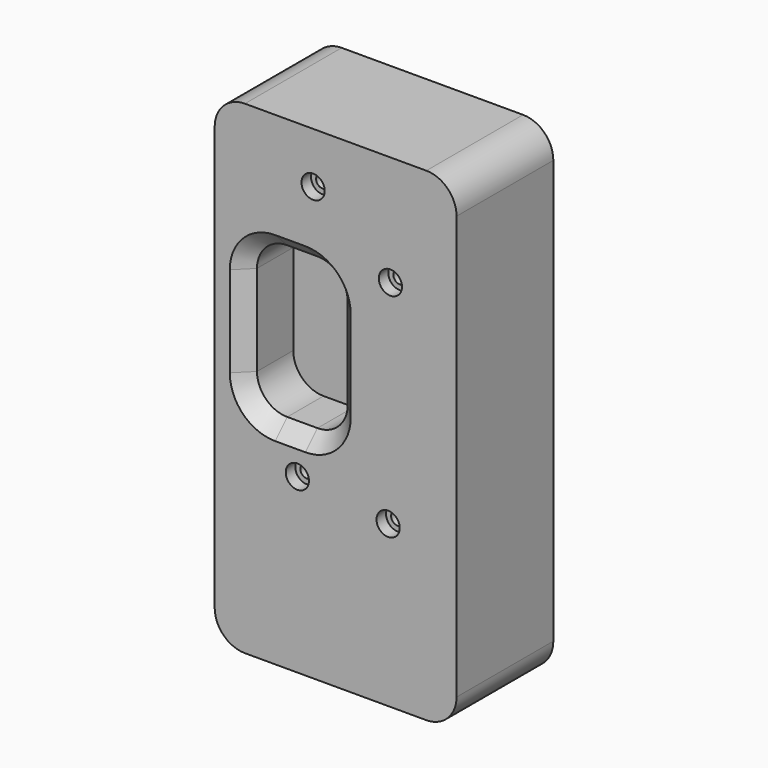
from build123d import *

# Parameters (mm, degrees)
F0_W           = 101.6
F0_H           = 50.8
F1_DEPTH       = 101.6
F3_D           = 5.5
F3_CBORE_D     = 9.75
F3_CBORE_DEPTH = 5
F4_R           = 12.7
F5_W           = 38.1
F5_H           = 63.5
F6_DEPTH       = 25.4
F7_R           = 12.7
F8_SIZE        = 6.35


with BuildPart() as f1:
    # F0 (on Top) → F1 (new body, symmetric)
    with BuildSketch(Plane.XY):
        Rectangle(F0_W, F0_H)
    extrude(amount=F1_DEPTH, both=True)

    # F3 (through all)
    with Locations(Plane.XZ.offset(25.4)):
        with Locations((-9.4546508044, 80.2069678903), (23.0063218623, 55.3097166121), (-16.0729084164, -29.151847586), (22.0608543605, -34.1943278909)):
            CounterBoreHole(F3_D / 2, F3_CBORE_D / 2, F3_CBORE_DEPTH)

    # F4
    f4_edges = [f1.edges().sort_by_distance(p)[0] for p in [
        (-50.8, 0, 101.6),
        (50.8, 0, 101.6),
        (-50.8, 0, -101.6),
        (50.8, 0, -101.6),
    ]]
    fillet(f4_edges, radius=F4_R)

    # F5 (on face) → F6 (cut)
    with BuildSketch(Plane.XZ.offset(25.4)):
        with Locations((-19.05, 19.05)):
            Rectangle(F5_W, F5_H)
    extrude(amount=-F6_DEPTH, mode=Mode.SUBTRACT)

    # F7
    f7_edges = [f1.edges().sort_by_distance(p)[0] for p in [
        (0, -12.7, 50.8),
        (-38.1, -12.7, 50.8),
        (-38.1, -12.7, -12.7),
        (0, -12.7, -12.7),
    ]]
    fillet(f7_edges, radius=F7_R)

    # F8
    f8_edges = [f1.edges().sort_by_distance(p)[0] for p in [
        (-34.380256, -25.4, 47.080256),
    ]]
    chamfer(f8_edges, length=F8_SIZE)


solid = f1.part
